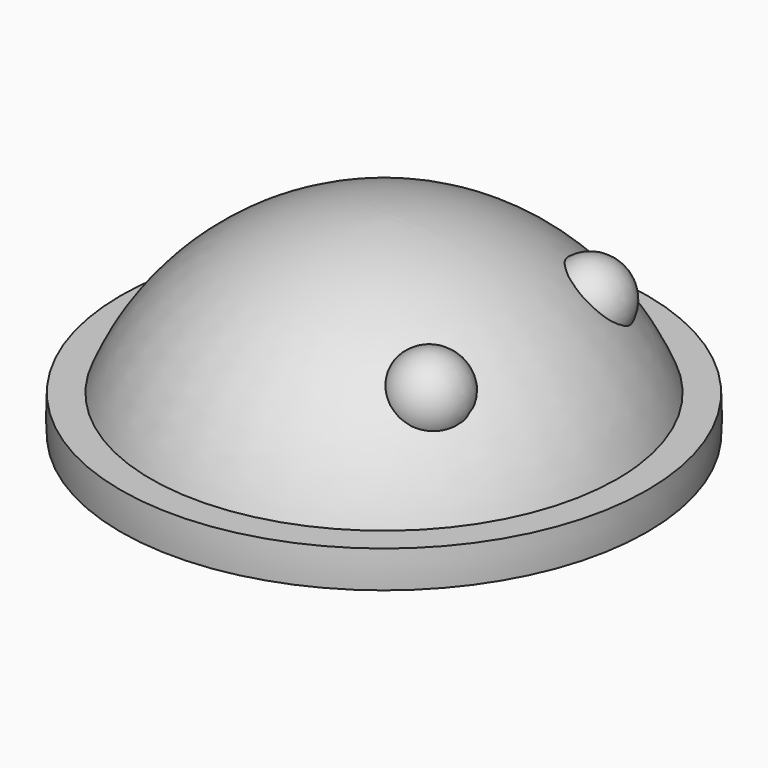
from build123d import *


with BuildPart() as base:
    # Sphere001 → Sphere001 (revolve)
    with BuildSketch(Plane.XZ):
        with BuildLine():
            ThreePointArc((10.474423, -0.732443), (10.5, 0), (10.474423, 0.732443))
            Line((10.474423, 0.732443), (0, 0.732443))
            Line((0, 0.732443), (0, -0.732443))
            Line((0, -0.732443), (10.474423, -0.732443))
        make_face()
    revolve(axis=Axis((0, 0, 0), (0, 0, 1)))


with BuildPart() as fusion:
    # Sphere → Sphere (revolve)
    with BuildSketch(Plane(origin=(0, 0, -3), x_dir=(1, 0, 0), z_dir=(0, -1, 0))):
        with BuildLine():
            ThreePointArc((9.396926, 3.420201), (5.735764, 8.19152), (0, 10))
            Line((0, 10), (0, 3.420201))
            Line((0, 3.420201), (9.396926, 3.420201))
        make_face()
    revolve(axis=Axis((0, 0, -3), (0, 0, 1)))

    # Fusion: union base
    add(base.part)


with BuildPart() as ull1:
    # Sphere002 → Sphere002 (revolve)
    with BuildSketch(Plane(origin=(5, 4, 4), x_dir=(1, 0, 0), z_dir=(0, -1, 0))):
        with BuildLine():
            ThreePointArc((0, -1.5), (1.5, 0), (0, 1.5))
            Line((0, 1.5), (0, -1.5))
        make_face()
    revolve(axis=Axis((5, 4, 4), (0, 0, 1)))


with BuildPart() as ull2:
    # Sphere003 → Sphere003 (revolve)
    with BuildSketch(Plane(origin=(5, -4, 4), x_dir=(1, 0, 0), z_dir=(0, -1, 0))):
        with BuildLine():
            ThreePointArc((0, -1.5), (1.5, 0), (0, 1.5))
            Line((0, 1.5), (0, -1.5))
        make_face()
    revolve(axis=Axis((5, -4, 4), (0, 0, 1)))


solid = Compound([fusion.part, ull1.part, ull2.part])
